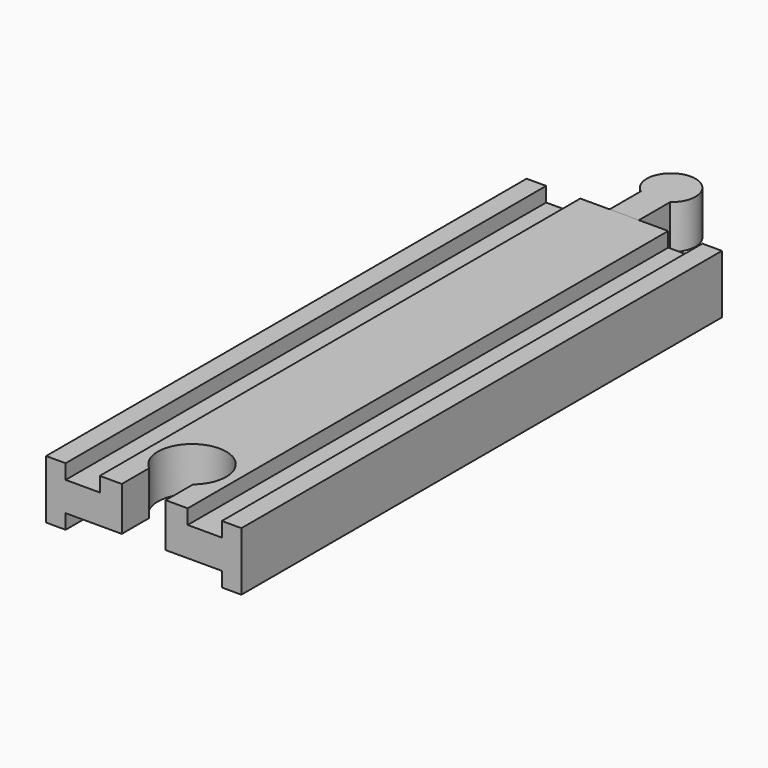
from build123d import *

# Parameters (mm, degrees)
PAD_DEPTH         = 123
POCKET_DEPTH      = 12.001
PAD001_DEPTH      = 6
PAD001_DEPTH_BACK = 3


with BuildPart() as body:
    # Sketch → Pad (new body)
    with BuildSketch(Plane.XZ):
        Polygon((-20, 6), (-20, -6), (-16, -6), (-16, -3), (-9, -3), (9, -3), (16, -3), (16, -6), (20, -6), (20, 6), (16, 6), (16, 3), (9, 3), (9, 6), (-9, 6), (-9, 3), (-16, 3), (-16, 6), align=None)
    extrude(amount=PAD_DEPTH)

    # Sketch002 (on Face14 of Pad) → Pocket (cut, through all)
    with BuildSketch(Plane(origin=(0, 0, 6), x_dir=(-1, 0, 0), z_dir=(0, 0, 1))):
        with BuildLine():
            Line((-4.5, 123), (4.5, 123))
            Line((4.5, 123), (4.5, 116))
            ThreePointArc((-4.5, 116), (0, 103.638097), (4.5, 116))
            Line((-4.5, 123), (-4.5, 116))
        make_face()
    extrude(amount=-POCKET_DEPTH, mode=Mode.SUBTRACT)


with BuildPart() as body001:
    # Sketch001 → Pad001 (new body, two sides)
    with BuildSketch(Plane.XY) as pad001_sk:
        with BuildLine():
            Line((-3, 0), (3, 0))
            Line((3, 0), (3, 8))
            ThreePointArc((3, 8), (0, 17), (-3, 8))
            Line((-3, 0), (-3, 8))
        make_face()
    extrude(amount=PAD001_DEPTH)
    extrude(pad001_sk.sketch, amount=-PAD001_DEPTH_BACK)


solid = Compound([body.part, body001.part])
